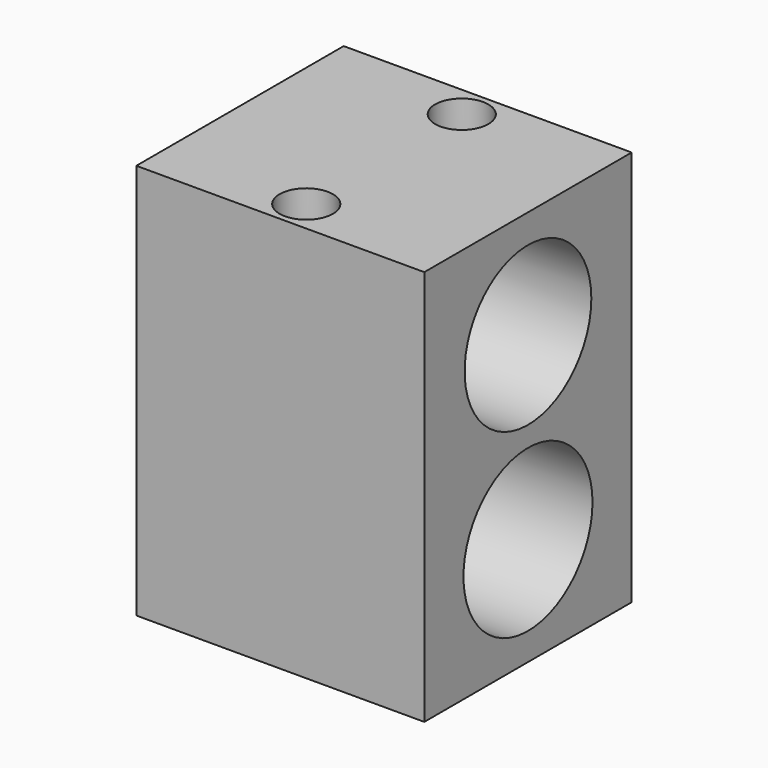
from build123d import *

# Parameters (mm, degrees)
SKETCH_W        = 40
SKETCH_H        = 36
PAD_DEPTH       = 55
SKETCH001_R     = 11.2
SKETCH001_R_2   = 11
POCKET_DEPTH    = 40.001
POCKET001_DEPTH = 4
SKETCH004_R     = 2.2
POCKET002_DEPTH = 51.001
SKETCH005_R     = 3.7
POCKET003_DEPTH = 4.5


with BuildPart() as part:
    # Sketch → Pad (new body)
    with BuildSketch(Plane.XY):
        Rectangle(SKETCH_W, SKETCH_H)
    extrude(amount=PAD_DEPTH)

    # Sketch001 → Pocket (cut, through all)
    with BuildSketch(Plane.YZ.offset(20)):
        with Locations((0, 15)):
            Circle(SKETCH001_R)
        with Locations((0, 40)):
            Circle(SKETCH001_R_2)
    extrude(amount=-POCKET_DEPTH, mode=Mode.SUBTRACT)

    # Sketch002 → Pocket001 (cut)
    with BuildSketch(Plane(origin=(0, 0, 0), x_dir=(1, 0, 0), z_dir=(0, 0, -1))):
        Polygon((2.078461, 9.9), (4.156922, 13.5), (2.078461, 17.1), (-2.078461, 17.1), (-4.156922, 13.5), (-2.078461, 9.9), align=None)
        Polygon((4.156922, -13.5), (2.078461, -9.9), (-2.078461, -9.9), (-4.156922, -13.5), (-2.078461, -17.1), (2.078461, -17.1), align=None)
    extrude(amount=-POCKET001_DEPTH, mode=Mode.SUBTRACT)

    # Sketch004 → Pocket002 (cut, through all)
    with BuildSketch(Plane(origin=(0, 0, 4), x_dir=(1, 0, 0), z_dir=(0, 0, -1))):
        with Locations((0, 13.5)):
            Circle(SKETCH004_R)
        with Locations((0, -13.5)):
            Circle(SKETCH004_R)
    extrude(amount=-POCKET002_DEPTH, mode=Mode.SUBTRACT)

    # Sketch005 → Pocket003 (cut)
    with BuildSketch(Plane.XY.offset(55)):
        with Locations((0, -13.5)):
            Circle(SKETCH005_R)
        with Locations((0, 13.5)):
            Circle(SKETCH005_R)
    extrude(amount=-POCKET003_DEPTH, mode=Mode.SUBTRACT)


solid = part.part
